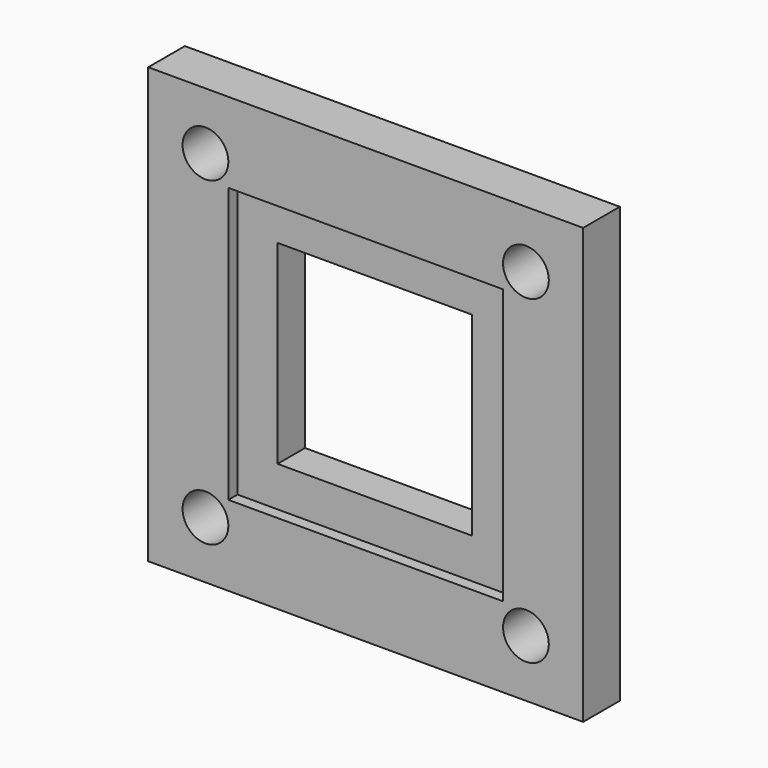
from build123d import *

# Parameters (mm, degrees)
SKETCH_W        = 38
SKETCH_H        = 38
SKETCH_R        = 2
PAD_DEPTH       = 4
SKETCH001_W     = 24
SKETCH001_H     = 24
POCKET_DEPTH    = 1
SKETCH002_W     = 17
SKETCH002_H     = 17
POCKET001_DEPTH = 3.001


with BuildPart() as part:
    # Sketch → Pad (new body)
    with BuildSketch(Plane.XZ):
        Rectangle(SKETCH_W, SKETCH_H)
        with Locations((-14, 14)):
            Circle(SKETCH_R, mode=Mode.SUBTRACT)
        with Locations((14, 14)):
            Circle(SKETCH_R, mode=Mode.SUBTRACT)
        with Locations((14, -14)):
            Circle(SKETCH_R, mode=Mode.SUBTRACT)
        with Locations((-14, -14)):
            Circle(SKETCH_R, mode=Mode.SUBTRACT)
    extrude(amount=PAD_DEPTH)

    # Sketch001 (on Face10 of Pad) → Pocket (cut)
    with BuildSketch(Plane.XZ.offset(4)):
        Rectangle(SKETCH001_W, SKETCH001_H)
    extrude(amount=-POCKET_DEPTH, mode=Mode.SUBTRACT)

    # Sketch002 (on Face15 of Pocket) → Pocket001 (cut, through all)
    with BuildSketch(Plane.XZ.offset(3)):
        Rectangle(SKETCH002_W, SKETCH002_H)
    extrude(amount=-POCKET001_DEPTH, mode=Mode.SUBTRACT)


solid = part.part
